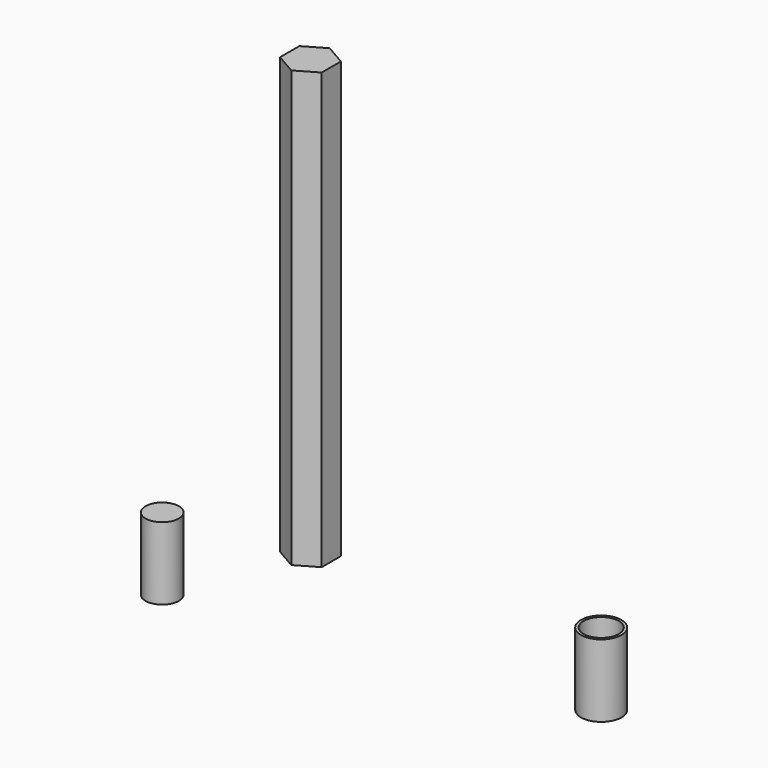
from build123d import *

# Parameters (mm, degrees)
F1_DEPTH = 76.2
F2_R     = 3.556
F3_DEPTH = 12.7
F4_R     = 3.0861
F5_DEPTH = 5.08
F6_R     = 2.921
F7_DEPTH = 12.7


with BuildPart() as f1:
    # F0 (on Top) → F1 (new body)
    with BuildSketch(Plane.XY):
        Polygon((-30.42393, 42.865115), (-30.42393, 47.068295), (-34.063991, 49.169886), (-37.704052, 47.068295), (-37.704052, 42.865115), (-34.063991, 40.763524), align=None)
    extrude(amount=F1_DEPTH)


with BuildPart() as f3:
    # F2 (on Top) → F3 (new body)
    with BuildSketch(Plane.XY):
        with Locations((25.785213, 33.748295)):
            Circle(F2_R)
    extrude(amount=F3_DEPTH)

    # F4 (on face) → F5 (cut)
    with BuildSketch(Plane.XY.offset(12.7)):
        with Locations((25.785213, 33.748295)):
            Circle(F4_R)
    extrude(amount=-F5_DEPTH, mode=Mode.SUBTRACT)


with BuildPart() as f7:
    # F6 (on Top) → F7 (new body)
    with BuildSketch(Plane.XY):
        with Locations((-42.343367, 22.878056)):
            Circle(F6_R)
    extrude(amount=F7_DEPTH)


solid = Compound([f1.part, f3.part, f7.part])
